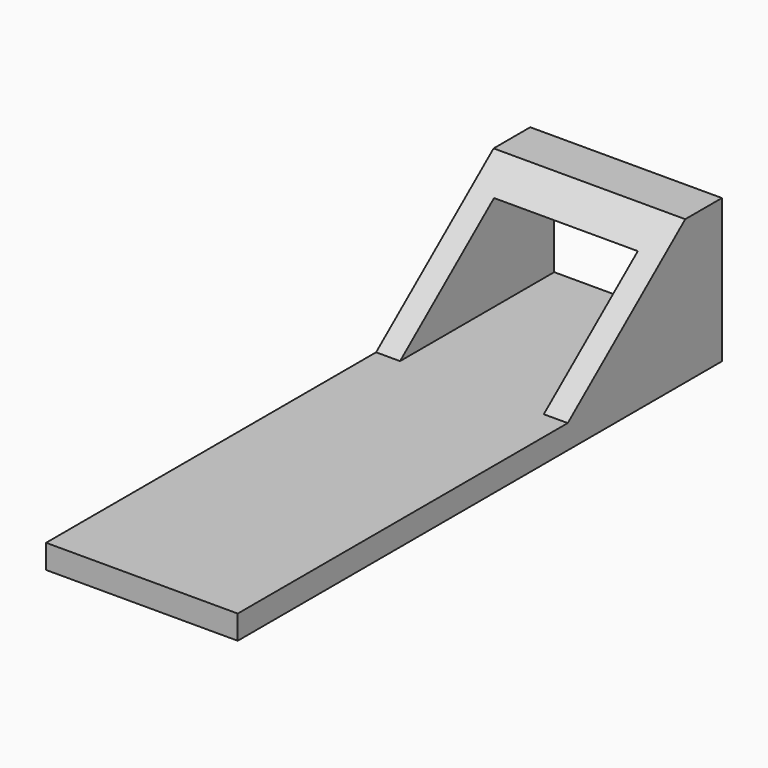
from build123d import *

# Parameters (mm, degrees)
F1_DEPTH = 6
F2_W     = 9
F2_H     = 6
F3_DEPTH = 13.0652172513


with BuildPart() as f1:
    # F0 (on Right) → F1 (new body, symmetric)
    with BuildSketch(Plane.YZ):
        Polygon((-29.184781258, 0), (8.7065214151, 0), (8.7065214151, 9), (5.8369566332, 9), (-3.3586958362, 1.5), (-29.184781258, 1.5), align=None)
    extrude(amount=F1_DEPTH, both=True)

    # F2 (on face) → F3 (cut, up to face)
    with BuildSketch(Plane(origin=(0, 8.7065214151, 0), x_dir=(-1, 0, 0), z_dir=(0, 1, 0))):
        with Locations((0, 4.5)):
            Rectangle(F2_W, F2_H)
    extrude(amount=-F3_DEPTH, mode=Mode.SUBTRACT)


solid = f1.part
